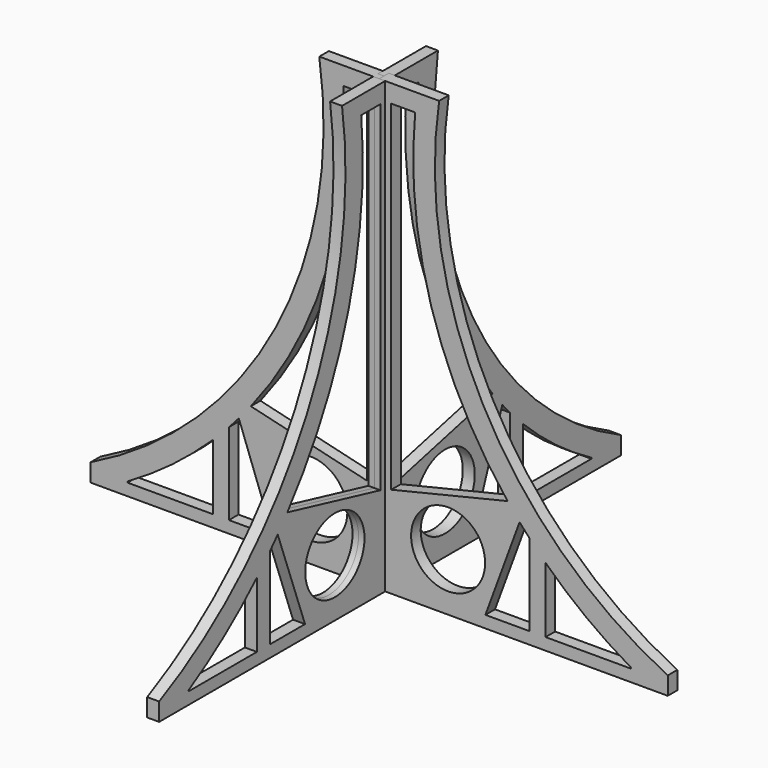
from build123d import *

# Parameters (mm, degrees)
F0_R          = 6.1806472431
F1_DEPTH      = 1
F1_DEPTH_BACK = 1
F3_COUNT      = 4
F3_ANGLE      = 270


with BuildPart() as f1:
    # F0 (on Right) → F1 (new body, two sides)
    with BuildSketch(Plane.YZ) as f1_sk:
        with BuildLine():
            Line((0, 75), (-10, 75))
            ThreePointArc((-10, 75), (-17.3120611875, 32.7661017706), (-48.152741852, 3))
            Line((-48.152741852, 3), (-48.152741852, 0))
            Line((-48.152741852, 0), (0, 0))
            Line((0, 0), (0, 75))
        make_face()
        with BuildLine():
            Line((-27.764151271, 12.9135319579), (-27.764151271, 2))
            Line((-27.764151271, 2), (-42, 2))
            Line((-42, 2), (-42, 2.1750166227))
            ThreePointArc((-42, 2.1750166227), (-34.5511609173, 7.105586844), (-27.764151271, 12.9135319579))
        make_face(mode=Mode.SUBTRACT)
        with BuildLine():
            Line((-23.4289781128, 17.4931603787), (-17.7242412692, 2))
            Line((-17.7242412692, 2), (-25.0797602726, 2))
            Line((-25.0797602726, 2), (-25.0797602726, 15.6543289028))
            ThreePointArc((-25.0797602726, 15.6543289028), (-24.2465458174, 16.5667213281), (-23.4289781128, 17.4931603787))
        make_face(mode=Mode.SUBTRACT)
        with Locations((-11.4981485531, 9.6015622839)):
            Circle(F0_R, mode=Mode.SUBTRACT)
        with BuildLine():
            Line((-6, 72), (-2, 72))
            Line((-2, 72), (-2, 15.2730196714))
            Line((-2, 15.2730196714), (-21.4176884088, 19.9159540401))
            ThreePointArc((-21.4176884088, 19.9159540401), (-8.6548548434, 44.4619174925), (-6, 72))
        make_face(mode=Mode.SUBTRACT)
    extrude(amount=F1_DEPTH)
    extrude(f1_sk.sketch, amount=-F1_DEPTH_BACK)


with BuildPart() as f3_1:
    # F3: instance of F1
    add(f1.part.rotate(Axis((0, 0, 26.2590656057), (0, 0, -1)), 1 * F3_ANGLE / (F3_COUNT - 1)))


with BuildPart() as f3_2:
    # F3: instance of F1
    add(f1.part.rotate(Axis((0, 0, 26.2590656057), (0, 0, -1)), 2 * F3_ANGLE / (F3_COUNT - 1)))


with BuildPart() as f3_3:
    # F3: instance of F1
    add(f1.part.rotate(Axis((0, 0, 26.2590656057), (0, 0, -1)), 3 * F3_ANGLE / (F3_COUNT - 1)))


solid = Compound([f1.part, f3_1.part, f3_2.part, f3_3.part])
